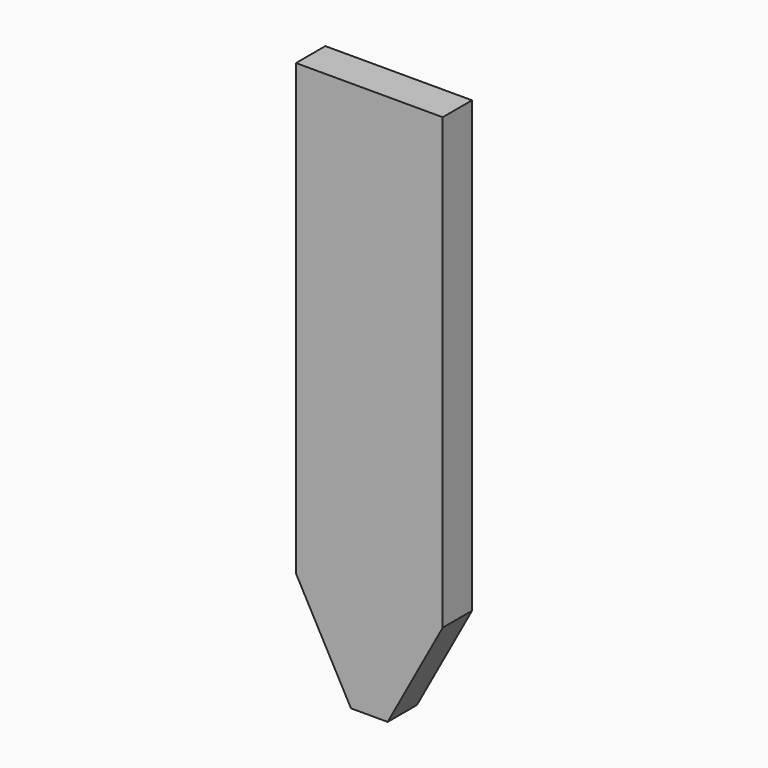
from build123d import *

# Parameters (mm, degrees)
BOX031_W           = 0.8
BOX031_H           = 0.2
BOX031_DEPTH       = 3
CHAMFER019_1_SIZE2 = 0.3
CHAMFER019_1_SIZE  = 0.55
CHAMFER019_2_SIZE2 = 0.3
CHAMFER019_2_SIZE  = 0.55


with BuildPart() as part:
    # Box031 → Box031 (new body)
    with BuildSketch(Plane(origin=(-0.4, -6, -3), x_dir=(1, 0, 0), z_dir=(0, 0, 1))):
        with Locations((0.4, 0.1)):
            Rectangle(BOX031_W, BOX031_H)
    extrude(amount=BOX031_DEPTH)

    # Chamfer019 1
    chamfer019_1_edges = [part.edges().sort_by_distance(p)[0] for p in [
        (0.4, -5.9, -3),
    ]]
    chamfer019_1_side = part.faces().sort_by_distance((0.4, -5.9, -1.5))[0]
    chamfer(chamfer019_1_edges, length=CHAMFER019_1_SIZE, length2=CHAMFER019_1_SIZE2, reference=chamfer019_1_side)

    # Chamfer019 2
    chamfer019_2_edges = [part.edges().sort_by_distance(p)[0] for p in [
        (-0.4, -5.9, -3),
    ]]
    chamfer019_2_side = part.faces().sort_by_distance((-0.4, -5.9, -1.5))[0]
    chamfer(chamfer019_2_edges, length=CHAMFER019_2_SIZE, length2=CHAMFER019_2_SIZE2, reference=chamfer019_2_side)


solid = part.part
